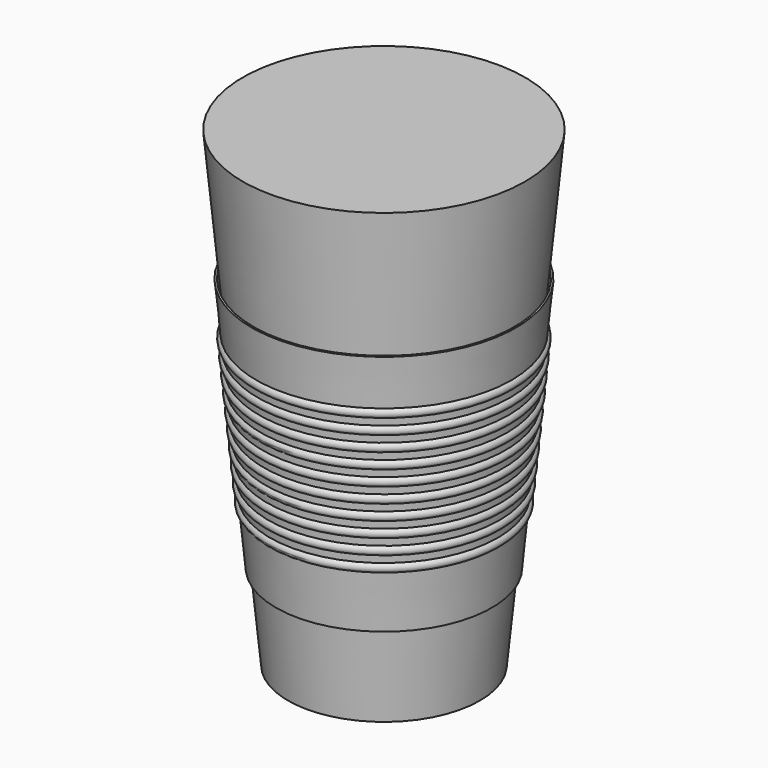
from build123d import *

# Parameters (mm, degrees)
F0_R = 30
F2_R = 44.15


with BuildPart() as f3:
    # F0 (on Top) → F3 section 0
    with BuildSketch(Plane.XY):
        Circle(F0_R)
    # F2 (on offset) → F3 section 1
    with BuildSketch(Plane.XY.offset(147.5)):
        Circle(F2_R)
    loft()


with BuildPart() as f5:
    # F4 (on Front) → F5 (revolve)
    with BuildSketch(Plane.XZ):
        Polygon((-33.17659, 26.858451), (-40.810623, 106.435819), (-41.410623, 106.435819), (-39.978216, 91.504369), (-39.715423, 88.765013), (-39.500747, 86.527218), (-39.237954, 83.787862), (-39.023278, 81.550068), (-38.760485, 78.810712), (-38.545809, 76.572918), (-38.283016, 73.833562), (-38.06834, 71.595768), (-37.805547, 68.856412), (-37.590871, 66.618618), (-37.328078, 63.879262), (-37.113402, 61.641468), (-36.850609, 58.902112), (-36.635933, 56.664318), (-36.37314, 53.924962), (-36.158464, 51.687168), (-35.895671, 48.947812), (-35.680995, 46.710017), (-35.418202, 43.970661), (-33.771119, 26.801417), align=None)
        with BuildLine():
            Line((-39.715423, 88.765013), (-39.978216, 91.504369))
            ThreePointArc((-39.978216, 91.504369), (-40.745436, 90.048484), (-39.715423, 88.765013))
        make_face()
        with BuildLine():
            Line((-39.237954, 83.787862), (-39.500747, 86.527218))
            ThreePointArc((-39.500747, 86.527218), (-40.267967, 85.071334), (-39.237954, 83.787862))
        make_face()
        with BuildLine():
            Line((-38.760485, 78.810712), (-39.023278, 81.550068))
            ThreePointArc((-39.023278, 81.550068), (-39.790498, 80.094184), (-38.760485, 78.810712))
        make_face()
        with BuildLine():
            Line((-38.283016, 73.833562), (-38.545809, 76.572918))
            ThreePointArc((-38.545809, 76.572918), (-39.313029, 75.117034), (-38.283016, 73.833562))
        make_face()
        with BuildLine():
            Line((-37.805547, 68.856412), (-38.06834, 71.595768))
            ThreePointArc((-38.06834, 71.595768), (-38.83556, 70.139884), (-37.805547, 68.856412))
        make_face()
        with BuildLine():
            ThreePointArc((-37.590871, 66.618618), (-38.358091, 65.162734), (-37.328078, 63.879262))
            Line((-37.328078, 63.879262), (-37.590871, 66.618618))
        make_face()
        with BuildLine():
            ThreePointArc((-37.113402, 61.641468), (-37.880622, 60.185584), (-36.850609, 58.902112))
            Line((-36.850609, 58.902112), (-37.113402, 61.641468))
        make_face()
        with BuildLine():
            ThreePointArc((-36.635933, 56.664318), (-37.403153, 55.208433), (-36.37314, 53.924962))
            Line((-36.37314, 53.924962), (-36.635933, 56.664318))
        make_face()
        with BuildLine():
            ThreePointArc((-36.158464, 51.687168), (-36.925684, 50.231283), (-35.895671, 48.947812))
            Line((-35.895671, 48.947812), (-36.158464, 51.687168))
        make_face()
        with BuildLine():
            ThreePointArc((-35.680995, 46.710017), (-36.448215, 45.254133), (-35.418202, 43.970661))
            Line((-35.418202, 43.970661), (-35.680995, 46.710017))
        make_face()
    revolve(axis=Axis((0, 0, 73.75), (0, 0, 1)))


solid = Compound([f3.part, f5.part])
